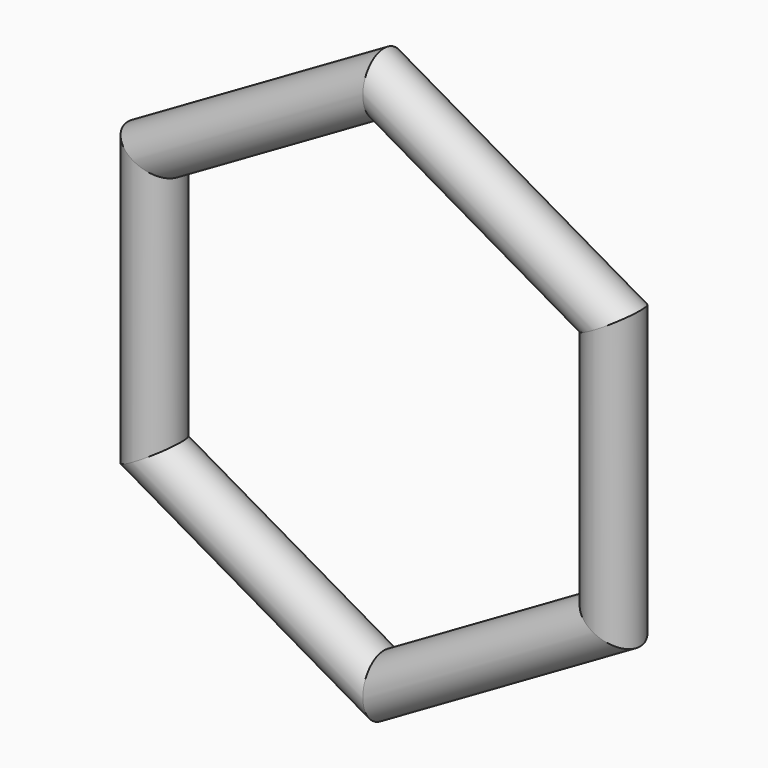
from build123d import *

# Parameters (mm, degrees)
F1_R = 1.27


with BuildPart() as f2:
    # F2: sweep along a path in F0
    with BuildLine(Plane.XZ) as f2_path:
        Line((10.9985226281, 6.35), (10.9985226281, -6.35))
        Line((10.9985226281, -6.35), (0, -12.7))
        Line((0, -12.7), (-10.9985226281, -6.35))
        Line((-10.9985226281, -6.35), (-10.9985226281, 6.35))
        Line((-10.9985226281, 6.35), (0, 12.7))
        Line((0, 12.7), (10.9985226281, 6.35))
    # F1 (on Top) → F2 (sweep)
    with BuildSketch(Plane.XY):
        with Locations((10.9985226281, 0)):
            Circle(F1_R)
    sweep(path=f2_path.line, transition=Transition.RIGHT)


solid = f2.part
